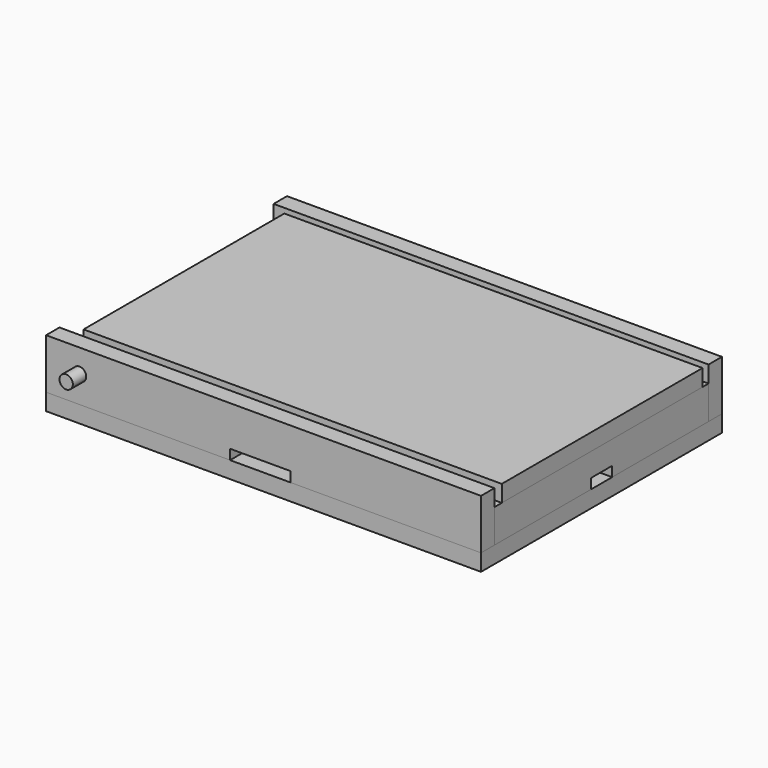
from build123d import *

# Parameters (mm, degrees)
SKETCH_W            = 130
SKETCH_H            = 90
PAD_DEPTH           = 5
SKETCH001_R         = 2
PAD001_DEPTH        = 5
CYLINDER_R          = 2
CYLINDER_DEPTH      = 100
CYLINDER_ROLL_ANGLE = 90
SKETCH003_W         = 125
SKETCH003_H         = 75
PAD003_DEPTH        = 5
PAD004_DEPTH        = 5


with BuildPart() as base:
    # Sketch → Pad (new body)
    with BuildSketch(Plane.XY):
        with Locations((0, -45)):
            Rectangle(SKETCH_W, SKETCH_H)
    extrude(amount=PAD_DEPTH)


with BuildPart() as pad001:
    # Sketch001 → Pad001 (new body)
    with BuildSketch(Plane.XZ):
        Polygon((-65, 5), (-65, 20), (65, 20), (65, 5), (8, 5), (8, 8), (-10, 8), (-10, 5), align=None)
        with Locations((-55, 13)):
            Circle(SKETCH001_R, mode=Mode.SUBTRACT)
    extrude(amount=PAD001_DEPTH)


with BuildPart() as clone_of_pad001:
    # Clone base: copy of Pad001
    add(pad001.part)


with BuildPart() as clone_of_pad001_1:
    # Clone placement: moved
    add(clone_of_pad001.part.moved(Location((0, -85, 0))))


with BuildPart() as cylinder:
    # Cylinder → Cylinder (new body)
    with BuildSketch(Plane.XY):
        Circle(CYLINDER_R)
    extrude(amount=CYLINDER_DEPTH)


with BuildPart() as cylinder_1:
    # Cylinder roll: moved
    add(cylinder.part.rotate(Axis((0, 0, 0), (1, 0, 0)), CYLINDER_ROLL_ANGLE))


with BuildPart() as cylinder_2:
    # Cylinder placement: moved
    add(cylinder_1.part.moved(Location((-55, 5, 13))))


with BuildPart() as pad003:
    # Sketch003 → Pad003 (new body)
    with BuildSketch(Plane.XY.offset(15)):
        with Locations((2.5, -44.75)):
            Rectangle(SKETCH003_W, SKETCH003_H)
    extrude(amount=PAD003_DEPTH)


with BuildPart() as pad002:
    # Sketch002 → Pad004 (new body)
    with BuildSketch(Plane.YZ.offset(60)):
        Polygon((-85, 5), (-85, 15), (-5, 15), (-5, 5), (-41, 5), (-41, 8), (-49, 8), (-49, 5), align=None)
    extrude(amount=PAD004_DEPTH)


solid = Compound([base.part, pad001.part, clone_of_pad001_1.part, cylinder_2.part, pad003.part, pad002.part])
